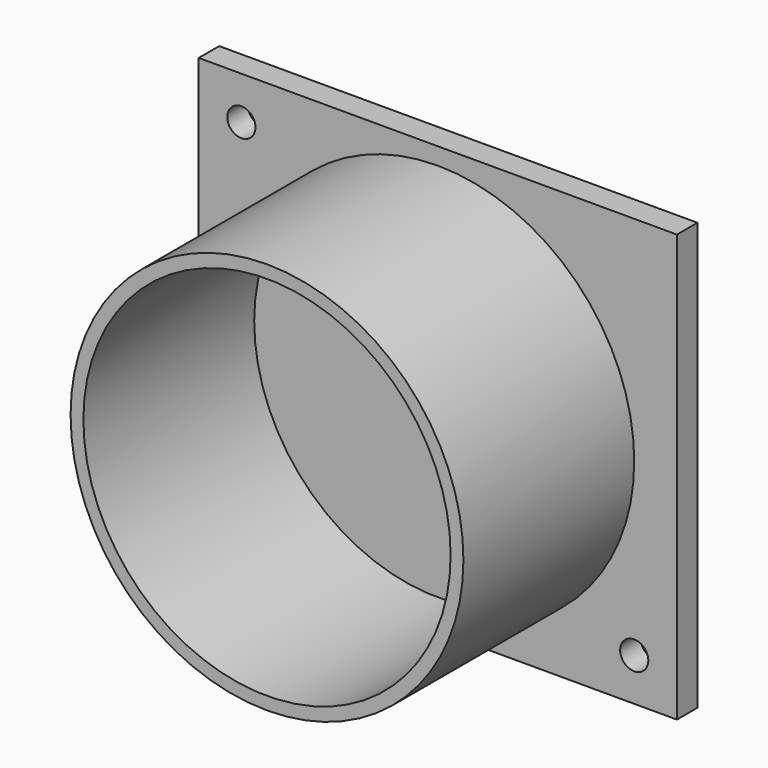
from build123d import *

# Parameters (mm, degrees)
F0_W     = 56
F0_H     = 50
F0_R     = 1.65
F0_R_2   = 23
F0_R_3   = 21.5
F1_DEPTH = 28
F2_R     = 21.5
F3_DEPTH = 25
F4_R     = 1.65
F5_DEPTH = 28.001
F7_DEPTH = 25
F6_R     = 23
F6_R_2   = 21.5
F8_DEPTH = 25


with BuildPart() as f1:
    # F0 (on Front) → F1 (new body)
    with BuildSketch(Plane.XZ):
        Rectangle(F0_W, F0_H)
        with Locations((23, -20)):
            Circle(F0_R, mode=Mode.SUBTRACT)
        with Locations((-23, 20)):
            Circle(F0_R, mode=Mode.SUBTRACT)
        Circle(F0_R_2, mode=Mode.SUBTRACT)
        Circle(F0_R_2)
        Circle(F0_R_3, mode=Mode.SUBTRACT)
        Circle(F0_R_3)
        with Locations((23, -20)):
            Circle(F0_R)
        with Locations((-23, 20)):
            Circle(F0_R)
    extrude(amount=F1_DEPTH)

    # F2 (on face) → F3 (cut)
    with BuildSketch(Plane.XZ.offset(28)):
        Circle(F2_R)
    extrude(amount=-F3_DEPTH, mode=Mode.SUBTRACT)

    # F4 (on face) → F5 (cut, through all)
    with BuildSketch(Plane.XZ.offset(28)):
        with Locations((-23, 20)):
            Circle(F4_R)
        with Locations((23, -20)):
            Circle(F4_R)
    extrude(amount=-F5_DEPTH, mode=Mode.SUBTRACT)

    # F7 (cut): a face of the model
    f7_faces = [f1.faces().sort_by_distance(p)[0] for p in [
        (0, -28, -24.2492670248),
    ]]
    extrude(f7_faces, amount=-F7_DEPTH, mode=Mode.SUBTRACT)

    # F6 (on face) → F8 (join)
    with BuildSketch(Plane.XZ.offset(3)):
        Circle(F6_R)
        Circle(F6_R_2, mode=Mode.SUBTRACT)
    extrude(amount=F8_DEPTH)


solid = f1.part
